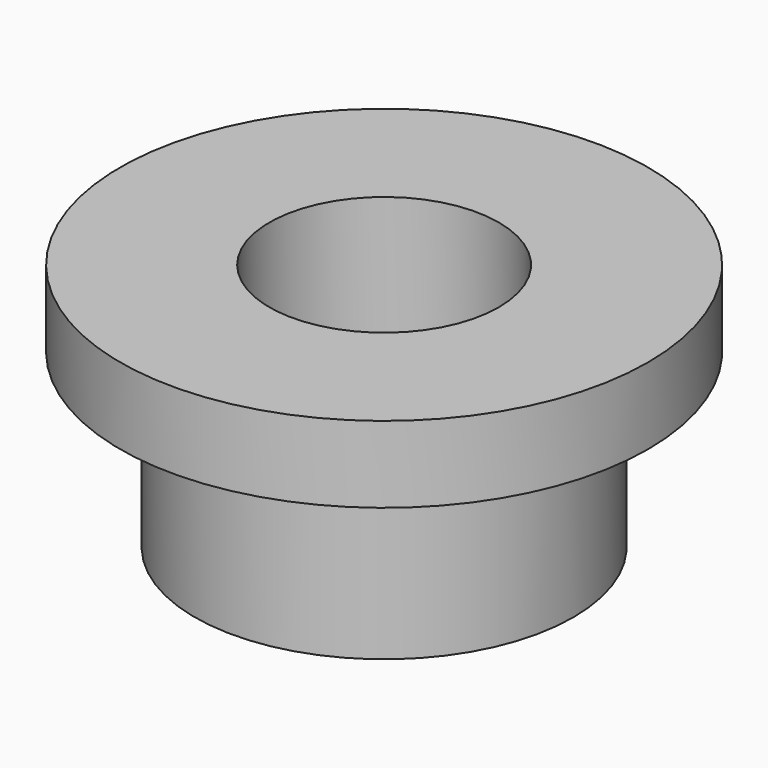
from build123d import *

# Parameters (mm, degrees)
SKETCH_R     = 4.95
PAD_DEPTH    = 4.5
SKETCH001_R  = 6.9
PAD001_DEPTH = 2
SKETCH002_R  = 3
POCKET_DEPTH = 20


with BuildPart() as part:
    # Sketch → Pad (new body)
    with BuildSketch(Plane.XY):
        Circle(SKETCH_R)
    extrude(amount=PAD_DEPTH)

    # Sketch001 (on Face3 of Pad) → Pad001 (join)
    with BuildSketch(Plane.XY.offset(4.5)):
        Circle(SKETCH001_R)
    extrude(amount=PAD001_DEPTH)

    # Sketch002 (on Face3 of Pad001) → Pocket (cut)
    with BuildSketch(Plane.XY.offset(6.5)):
        Circle(SKETCH002_R)
    extrude(amount=-POCKET_DEPTH, mode=Mode.SUBTRACT)


solid = part.part
